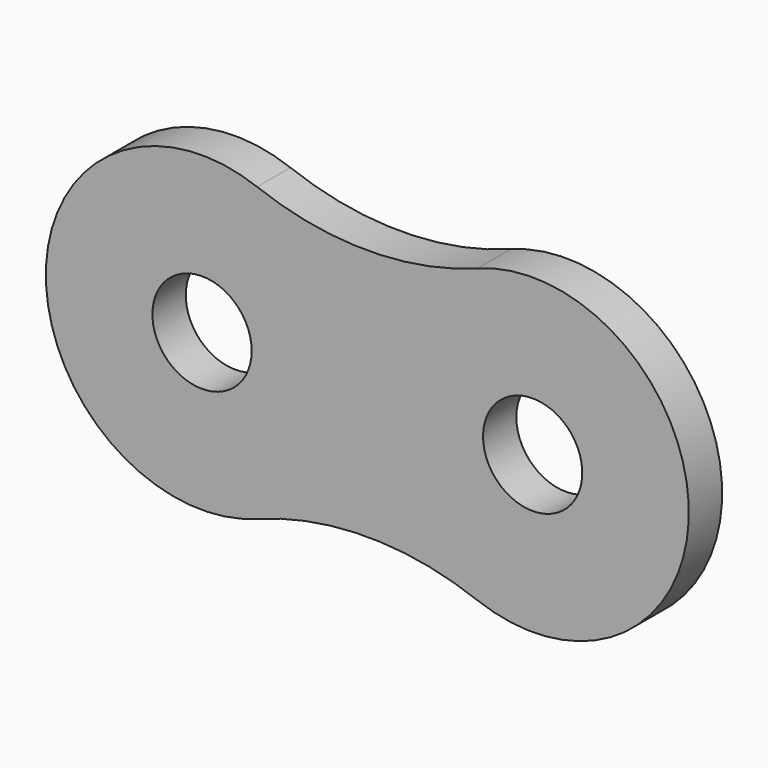
from build123d import *

# Parameters (mm, degrees)
F0_R     = 4.765
F1_DEPTH = 4


with BuildPart() as f1:
    # F0 (on Front) → F1 (new body)
    with BuildSketch(Plane.XZ):
        with BuildLine():
            ThreePointArc((-0.13718, 14.035607), (-10.720514, 12.106821), (-21.303847, 14.035607))
            ThreePointArc((-21.303847, 14.035607), (-41.595514, 0), (-21.303847, -14.035607))
            ThreePointArc((-21.303847, -14.035607), (-10.720514, -12.106821), (-0.13718, -14.035607))
            ThreePointArc((-0.13718, -14.035607), (20.154486, 0), (-0.13718, 14.035607))
        make_face()
        with Locations((-26.595514, 0)):
            Circle(F0_R, mode=Mode.SUBTRACT)
        with BuildLine():
            ThreePointArc((9.919486, 0), (5.154486, -4.765), (0.389486, 0))
            ThreePointArc((0.389486, 0), (5.154486, 4.765), (9.919486, 0))
        make_face(mode=Mode.SUBTRACT)
    extrude(amount=-F1_DEPTH)


solid = f1.part
